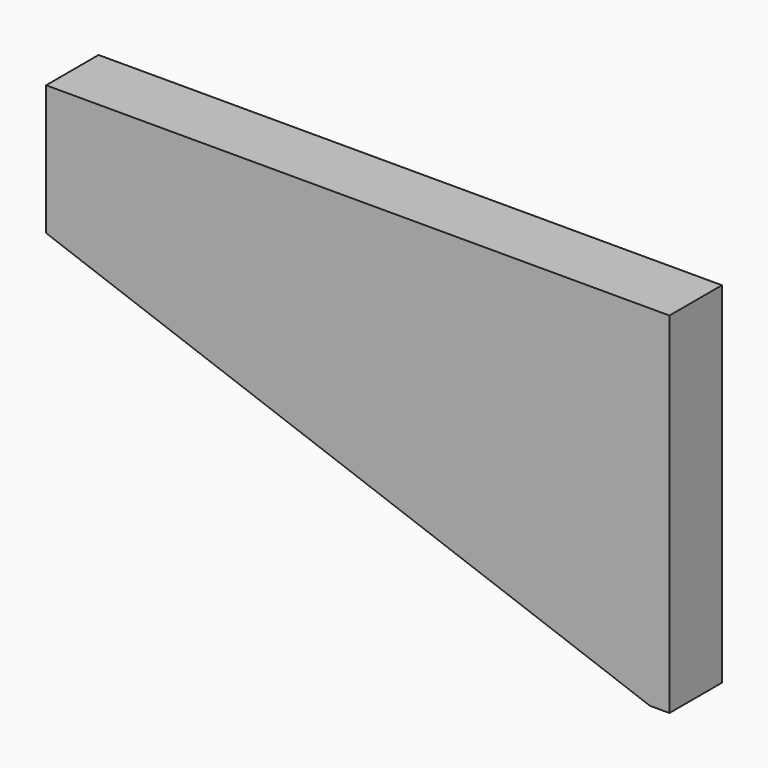
from build123d import *

# Parameters (mm, degrees)
BOX728_W               = 80
BOX728_H               = 6
BOX728_DEPTH           = 20
BOX728_PLACEMENT_ANGLE = 20
BOX724_W               = 57
BOX724_H               = 6
BOX724_DEPTH           = 32


with BuildPart() as krychle728:
    # Box728 → Box728 (new body)
    with BuildSketch(Plane.XY):
        with Locations((40, 3)):
            Rectangle(BOX728_W, BOX728_H)
    extrude(amount=BOX728_DEPTH)


with BuildPart() as krychle728_1:
    # Box728 placement: moved
    add(krychle728.part.moved(Location((-131.7, -24, 54.35))).rotate(Axis((-131.7, -24, 54.35), (0, 1, 0)), BOX728_PLACEMENT_ANGLE))


with BuildPart() as cut531:
    # Box724 → Box724 (new body)
    with BuildSketch(Plane(origin=(-122, -24, 52), x_dir=(1, 0, 0), z_dir=(0, 0, 1))):
        with Locations((28.5, 3)):
            Rectangle(BOX724_W, BOX724_H)
    extrude(amount=BOX724_DEPTH)

    # Cut531: cut Krychle728
    add(krychle728_1.part, mode=Mode.SUBTRACT)


solid = cut531.part
